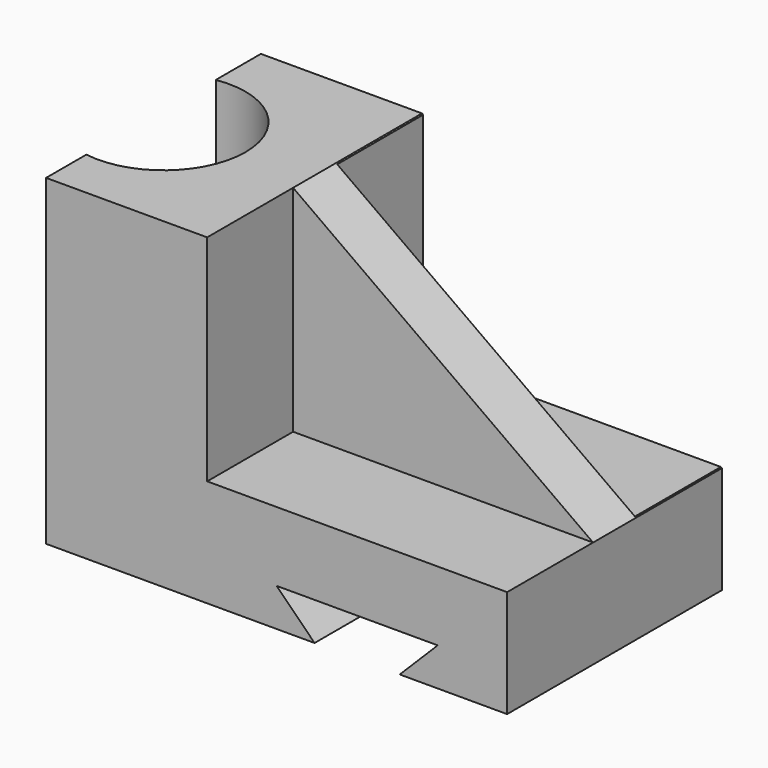
from build123d import *

# Parameters (mm, degrees)
F1_DEPTH = 127
F2_R     = 38.7298959395
F3_DEPTH = 127
F4_DEPTH = 127
F5_DEPTH = 127
F7_DEPTH = 50.8
F9_DEPTH = 50.8


with BuildPart() as f1:
    # F0 (on Front) → F1 (new body)
    with BuildSketch(Plane.XZ):
        Polygon((-163.7962559972, -23.8678936321), (-163.4352315129, 77.7321063679), (-239.6352315129, 77.7321063679), (-239.6352315129, -74.6678936321), (-112.6352315129, -74.6678936321), (-130.5957437551, -56.70738139), (-54.3957437551, -56.70738139), (-72.3562559972, -74.6678936321), (-21.5562559972, -74.6678936321), (-21.5562559972, -23.8678936321), align=None)
    extrude(amount=F1_DEPTH)

    # F2 (on Top) → F3 (cut)
    with BuildSketch(Plane.XY):
        with Locations((-233.6748705878, -64.917108044)):
            Circle(F2_R)
    extrude(amount=F3_DEPTH, mode=Mode.SUBTRACT)

    # F4 (cut): a face of the model
    f4_faces = [f1.faces().sort_by_distance(p)[0] for p in [
        (-220.4073030245, -64.917108044, 0),
    ]]
    extrude(f4_faces, amount=-F4_DEPTH, mode=Mode.SUBTRACT)

    # F0 (on Front) → F5 (join)
    with BuildSketch(Plane.XZ):
        Polygon((-21.5562559972, -23.8678936321), (-163.4352315129, 77.7321063679), (-163.7962559972, -23.8678936321), align=None)
    extrude(amount=F5_DEPTH)

    # F6 (on face) → F7 (cut)
    with BuildSketch(Plane.XZ.offset(127)):
        Polygon((-21.5562559972, -23.8678936321), (-163.4352315129, 77.7321063679), (-163.4352315129, -23.8678936321), align=None)
    extrude(amount=-F7_DEPTH, mode=Mode.SUBTRACT)

    # F8 (on face) → F9 (cut)
    with BuildSketch(Plane.XZ):
        Polygon((-162.8829091787, -23.5076323152), (-20.4247385263, -23.5076323152), (-162.8829091787, 78.0534595251), align=None)
    extrude(amount=F9_DEPTH, mode=Mode.SUBTRACT)


solid = f1.part
